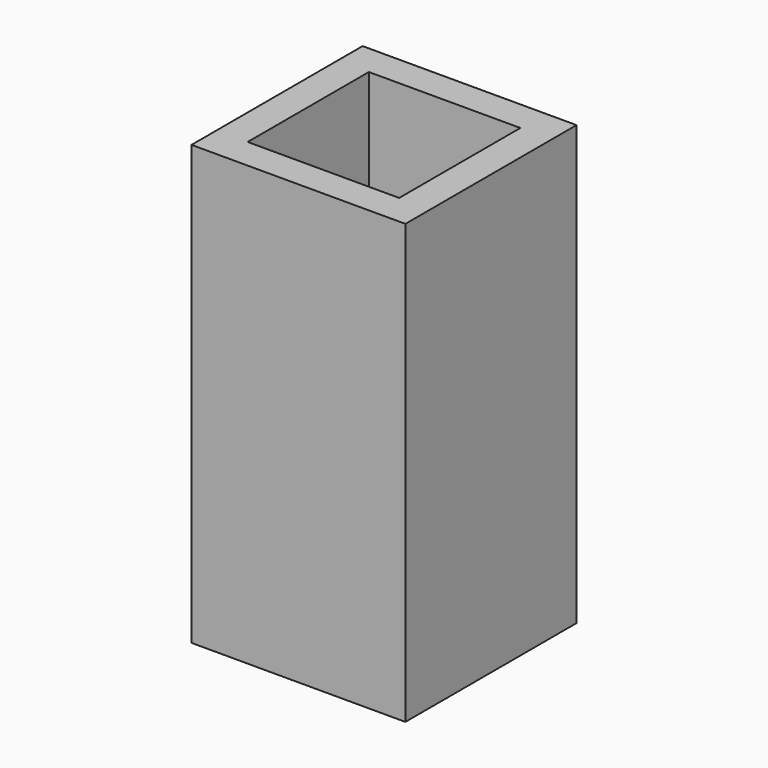
from build123d import *

# Parameters (mm, degrees)
F0_W     = 120
F0_H     = 120
F1_DEPTH = 246
F2_W     = 100
F2_H     = 100
F3_DEPTH = 40
F4_W     = 85
F4_H     = 85
F5_DEPTH = 60


with BuildPart() as f1:
    # F0 (on Top) → F1 (new body)
    with BuildSketch(Plane.XY):
        with Locations((60, 60)):
            Rectangle(F0_W, F0_H)
    extrude(amount=F1_DEPTH)

    # F2 (on face) → F3 (cut)
    with BuildSketch(Plane(origin=(0, 0, 0), x_dir=(1, 0, 0), z_dir=(0, 0, -1))):
        with Locations((60, -60)):
            Rectangle(F2_W, F2_H)
    extrude(amount=-F3_DEPTH, mode=Mode.SUBTRACT)

    # F4 (on face) → F5 (cut)
    with BuildSketch(Plane.XY.offset(246)):
        with Locations((60, 60)):
            Rectangle(F4_W, F4_H)
    extrude(amount=-F5_DEPTH, mode=Mode.SUBTRACT)


solid = f1.part
